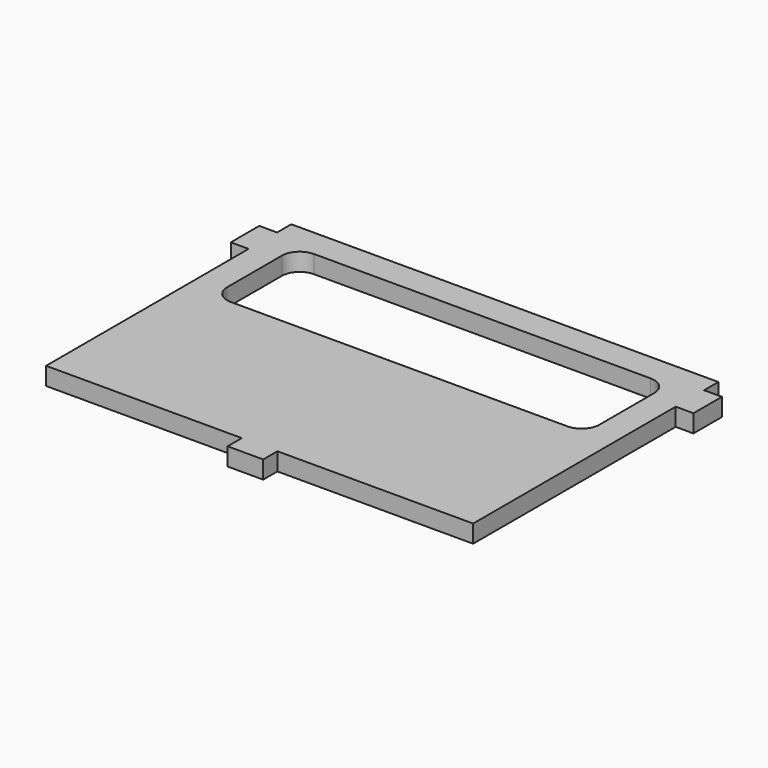
from build123d import *

# Parameters (mm, degrees)
F1_DEPTH = 5


with BuildPart() as f1:
    # F0 (on Top) → F1 (new body)
    with BuildSketch(Plane.XY):
        Polygon((-2.517991, -42.137195), (-2.517991, -37.137195), (47.482009, -37.137195), (52.482009, -37.137195), (52.482009, 20.923738), (52.482009, 33.992805), (57.482009, 33.992805), (57.482009, 43.992805), (52.482009, 43.992805), (52.482009, 48.992805), (-67.517991, 48.992805), (-67.517991, 43.992805), (-72.517991, 43.992805), (-72.517991, 33.992805), (-67.517991, 33.992805), (-67.517991, 20.923738), (-67.517991, -37.137195), (-62.517991, -37.137195), (-12.517991, -37.137195), (-12.517991, -42.137195), align=None)
        with BuildLine():
            ThreePointArc((-59.814628, 36.060459), (-58.350162, 39.595993), (-54.814628, 41.060459))
            Line((-54.814628, 41.060459), (39.778646, 41.060459))
            ThreePointArc((39.778646, 41.060459), (43.31418, 39.595993), (44.778646, 36.060459))
            Line((44.778646, 36.060459), (44.778646, 16.854455))
            ThreePointArc((44.778646, 16.854455), (43.31418, 13.318921), (39.778646, 11.854455))
            Line((39.778646, 11.854455), (-54.814628, 11.854455))
            ThreePointArc((-54.814628, 11.854455), (-58.350162, 13.318921), (-59.814628, 16.854455))
            Line((-59.814628, 16.854455), (-59.814628, 36.060459))
        make_face(mode=Mode.SUBTRACT)
    extrude(amount=F1_DEPTH)


solid = f1.part
